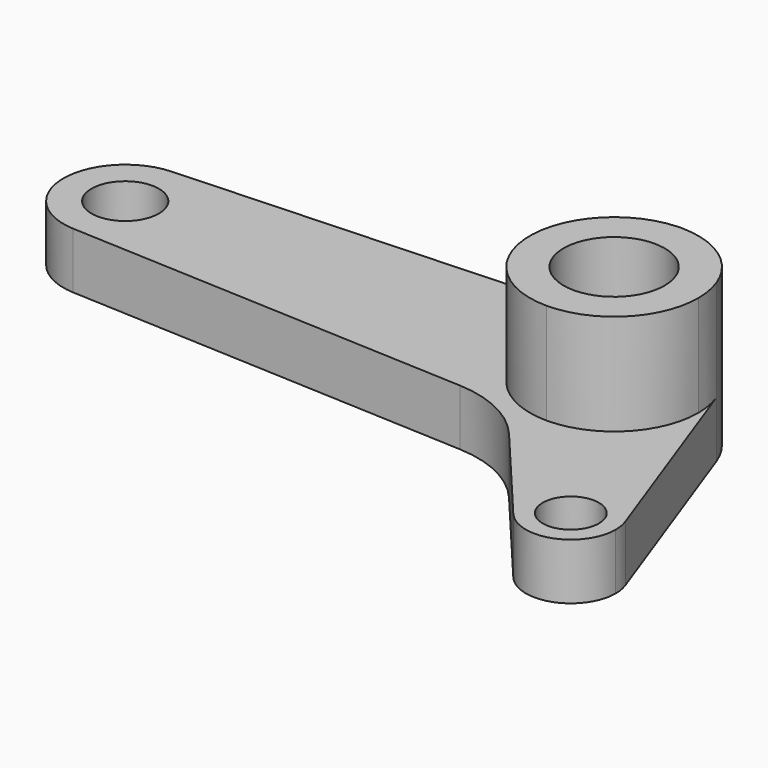
from build123d import *

# Parameters (mm, degrees)
F0_R     = 6
F0_R_2   = 5
F1_DEPTH = 10
F2_DEPTH = 28


with BuildPart() as f1:
    # F0 (on Top) → F1 (new body)
    with BuildSketch(Plane.XY):
        with BuildLine():
            Line((45.977814, 15.015856), (45.288669, 14.984161))
            ThreePointArc((45.288669, 14.984161), (45.633151, 14.99604), (45.977814, 15))
            Line((45.977814, 15), (45.977814, 15.015856))
        make_face()
        with BuildLine():
            ThreePointArc((-41.591929, 10.988385), (-52.086556, 0), (-41.591929, -10.988385))
            ThreePointArc((-41.591929, -10.988385), (-33.489159, -7.954845), (-30.086556, 0))
            ThreePointArc((-30.086556, 0), (-33.489158, 7.954844), (-41.591929, 10.988385))
        make_face()
        with Locations((-41.086556, 0)):
            Circle(F0_R, mode=Mode.SUBTRACT)
        with BuildLine():
            ThreePointArc((73.499104, -31.915178), (61.977814, -27.712813), (59.856524, -39.791725))
            ThreePointArc((59.856524, -39.791725), (68.719135, -42.156677), (73.977814, -34.641016))
            ThreePointArc((73.977814, -34.641016), (73.857228, -33.257239), (73.499104, -31.915178))
        make_face()
        with Locations((65.977814, -34.641016)):
            Circle(F0_R_2, mode=Mode.SUBTRACT)
        with BuildLine():
            ThreePointArc((-30.086556, 0), (-33.489159, -7.954845), (-41.591929, -10.988385))
            Line((-41.591929, -10.988385), (29.981679, -14.280168))
            ThreePointArc((29.981679, -14.280168), (37.91714, -16.325812), (44.366044, -21.382276))
            Line((44.366044, -21.382276), (45.977814, -23.297762))
            Line((45.977814, -23.297762), (45.977814, -15))
            ThreePointArc((45.977814, -15), (30.981774, -0.344663), (45.288669, 14.984161))
            Line((45.288669, 14.984161), (-41.591929, 10.988385))
            ThreePointArc((-41.591929, 10.988385), (-33.489158, 7.954844), (-30.086556, 0))
        make_face()
        with BuildLine():
            ThreePointArc((60.977814, 0), (56.584416, -10.606602), (45.977814, -15))
            Line((45.977814, -15), (45.977814, -23.297762))
            Line((45.977814, -23.297762), (59.856524, -39.791725))
            ThreePointArc((59.856524, -39.791725), (61.977814, -27.712813), (73.499104, -31.915178))
            Line((73.499104, -31.915178), (60.080233, 5.110947))
            ThreePointArc((60.080233, 5.110947), (60.751715, 2.594582), (60.977814, 0))
        make_face()
        with BuildLine():
            ThreePointArc((45.977814, 15), (45.633151, 14.99604), (45.288669, 14.984161))
            ThreePointArc((45.288669, 14.984161), (30.981774, -0.344663), (45.977814, -15))
            ThreePointArc((45.977814, -15), (56.584416, -10.606602), (60.977814, 0))
            ThreePointArc((60.977814, 0), (60.751715, 2.594582), (60.080233, 5.110947))
            ThreePointArc((60.080233, 5.110947), (54.589893, 12.281372), (45.977814, 15))
        make_face()
        with BuildLine():
            ThreePointArc((54.977814, 0), (52.341775, -6.363961), (45.977814, -9))
            ThreePointArc((45.977814, -9), (39.613853, 6.363961), (54.977814, 0))
        make_face(mode=Mode.SUBTRACT)
    extrude(amount=F1_DEPTH)

    # F0 (on Top) → F2 (join)
    with BuildSketch(Plane.XY):
        with BuildLine():
            ThreePointArc((45.977814, 15), (45.633151, 14.99604), (45.288669, 14.984161))
            ThreePointArc((45.288669, 14.984161), (30.981774, -0.344663), (45.977814, -15))
            ThreePointArc((45.977814, -15), (56.584416, -10.606602), (60.977814, 0))
            ThreePointArc((60.977814, 0), (60.751715, 2.594582), (60.080233, 5.110947))
            ThreePointArc((60.080233, 5.110947), (54.589893, 12.281372), (45.977814, 15))
        make_face()
        with BuildLine():
            ThreePointArc((54.977814, 0), (52.341775, -6.363961), (45.977814, -9))
            ThreePointArc((45.977814, -9), (39.613853, 6.363961), (54.977814, 0))
        make_face(mode=Mode.SUBTRACT)
    extrude(amount=F2_DEPTH)


solid = f1.part
